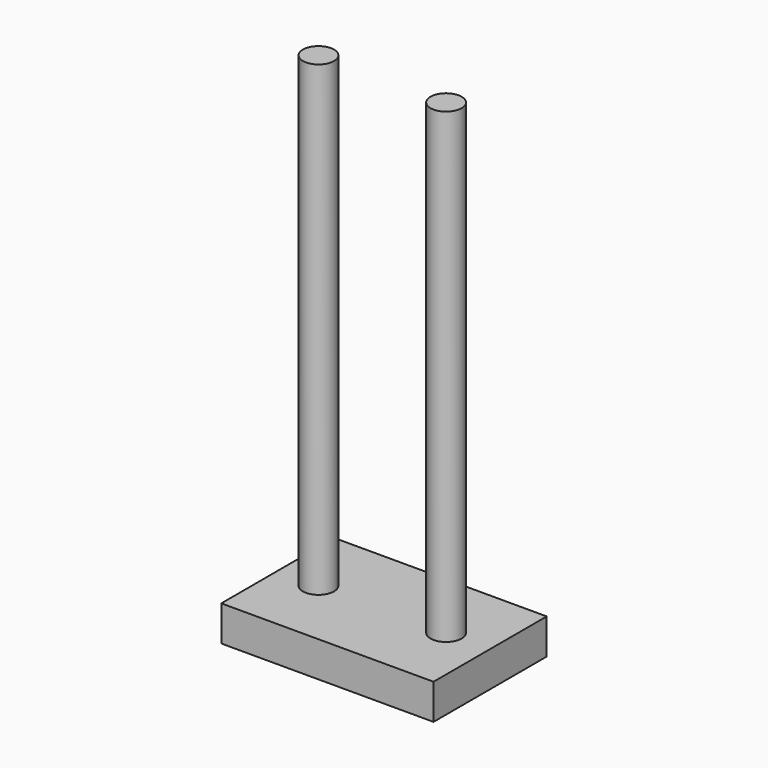
from build123d import *

# Parameters (mm, degrees)
F0_W     = 19.05
F0_H     = 12.7
F1_DEPTH = 3.175
F2_R     = 1.397
F3_DEPTH = 6.35
F4_R     = 1.397
F5_DEPTH = 35.56


with BuildPart() as f1:
    # F0 (on Top) → F1 (new body)
    with BuildSketch(Plane.XY):
        with Locations((9.525, 6.35)):
            Rectangle(F0_W, F0_H)
    extrude(amount=F1_DEPTH)

    # F2 (on face) → F3 (join)
    with BuildSketch(Plane.XY.offset(3.175)):
        with Locations((3.643117, 6.35)):
            Circle(F2_R)
        with BuildLine():
            ThreePointArc((16.495517, 6.35), (15.098517, 7.747), (13.701517, 6.35))
            ThreePointArc((13.701517, 6.35), (15.098517, 4.953), (16.495517, 6.35))
        make_face()
    extrude(amount=F3_DEPTH)

    # F4 (on face) → F5 (join)
    with BuildSketch(Plane.XY.offset(9.525)):
        with Locations((3.643117, 6.35)):
            Circle(F4_R)
        with BuildLine():
            ThreePointArc((16.495517, 6.35), (15.098517, 7.747), (13.701517, 6.35))
            ThreePointArc((13.701517, 6.35), (15.098517, 4.953), (16.495517, 6.35))
        make_face()
    extrude(amount=F5_DEPTH)


solid = f1.part
